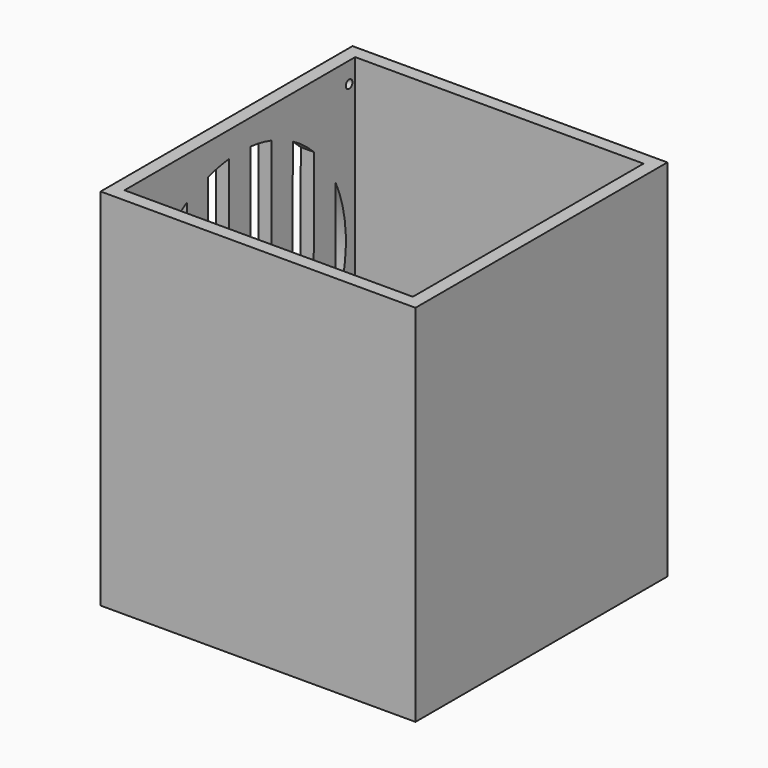
from build123d import *

# Parameters (mm, degrees)
F0_W     = 120.65
F0_H     = 120.65
F1_DEPTH = 139.7
F2_T     = -5.08
F4_DEPTH = 25.4
F5_R     = 1.5875
F6_DEPTH = 25.4


with BuildPart() as f1:
    # F0 (on Top) → F1 (new body)
    with BuildSketch(Plane.XY):
        with Locations((-21.288729769, 17.728820008)):
            Rectangle(F0_W, F0_H)
    extrude(amount=F1_DEPTH)

    # F2
    f2_openings = [f1.faces().sort_by_distance(p)[0] for p in [
        (-21.28873, 17.72882, 139.7),
    ]]
    offset(amount=F2_T, openings=f2_openings)

    # F3 (on face) → F4 (cut)
    with BuildSketch(Plane(origin=(-81.613729769, 0, 0), x_dir=(0, -1, 0), z_dir=(-1, 0, 0))):
        with BuildLine():
            Line((-22.8087121331, 79.4233293937), (-22.8087121331, 129.9203726467))
            ThreePointArc((-22.8087121331, 129.9203726467), (-27.9420685988, 129.1377325739), (-32.9687117108, 127.8351454898))
            Line((-32.9687117108, 127.8351454898), (-32.9687117108, 79.4203999617))
            Line((-32.9687117108, 79.4203999617), (-22.8087121331, 79.4233293937))
        make_face()
        with BuildLine():
            ThreePointArc((-32.9687117108, 30.9148545102), (-27.9420685988, 29.6122674261), (-22.8087121331, 28.8296273533))
            Line((-22.8087121331, 28.8296273533), (-22.8087121331, 79.4233293937))
            Line((-22.8087121331, 79.4233293937), (-32.9687117108, 79.4203999617))
            Line((-32.9687117108, 79.4203999617), (-32.9687117108, 30.9148545102))
        make_face()
        with BuildLine():
            ThreePointArc((-12.6196735848, 28.8325760096), (-7.486767718, 29.618187754), (-2.4608762974, 30.9236853135))
            Line((-2.4608762974, 30.9236853135), (-2.4748441512, 79.3676804493))
            Line((-2.4748441512, 79.3676804493), (-2.4888187622, 79.36767642))
            Line((-2.4888187622, 79.36767642), (-12.6342468971, 79.3764521102))
            Line((-12.6342468971, 79.3764521102), (-12.6196735848, 28.8325760096))
        make_face()
        with BuildLine():
            Line((-2.4748441512, 79.3676804493), (-2.4888187622, 127.8351110402))
            ThreePointArc((-2.4888187622, 127.8351110402), (-7.5154621752, 129.1377101531), (-12.6488202192, 129.9203618262))
            Line((-12.6488202192, 129.9203618262), (-12.6342468971, 79.3764521102))
            Line((-12.6342468971, 79.3764521102), (-2.4888187622, 79.36767642))
            Line((-2.4888187622, 79.36767642), (-2.4748441512, 79.3676804493))
        make_face()
        with BuildLine():
            Line((17.8416409794, 79.3735383001), (17.8311803932, 115.6534560237))
            ThreePointArc((17.8311803932, 115.6534560237), (12.9943502285, 119.8314804526), (7.6711808155, 123.3690900368))
            Line((7.6711808155, 123.3690900368), (7.6711808155, 79.370605852))
            Line((7.6711808155, 79.370605852), (17.8311803932, 79.373535284))
            Line((17.8311803932, 79.373535284), (17.8416409794, 79.3735383001))
        make_face()
        with BuildLine():
            ThreePointArc((7.6711808155, 35.3809099632), (13.0060137652, 38.9273796382), (17.8520948084, 43.1170560315))
            Line((17.8520948084, 43.1170560315), (17.8416409794, 79.3735383001))
            Line((17.8416409794, 79.3735383001), (17.8311803932, 79.373535284))
            Line((17.8311803932, 79.373535284), (7.6711808155, 79.370605852))
            Line((7.6711808155, 79.370605852), (7.6711808155, 35.3809099632))
        make_face()
        with BuildLine():
            Line((27.9975640978, 79.376464716), (33.0711799708, 79.376464716))
            ThreePointArc((33.0711799708, 79.376464716), (31.7847314928, 90.7349391624), (27.9911799708, 101.5182066768))
            Line((27.9911799708, 101.5182066768), (27.9975640978, 79.376464716))
        make_face()
        with BuildLine():
            ThreePointArc((28.0039414666, 57.2581618917), (31.7881684046, 68.0300514084), (33.071179992, 79.375))
            ThreePointArc((33.071179992, 79.375), (33.0711799867, 79.375732358), (33.0711799708, 79.376464716))
            Line((33.0711799708, 79.376464716), (27.9975640978, 79.376464716))
            Line((27.9975640978, 79.376464716), (28.0039414666, 57.2581618917))
        make_face()
        with BuildLine():
            Line((-42.9323247395, 79.4203999617), (-43.1287117108, 123.3691530375))
            ThreePointArc((-43.1287117108, 123.3691530375), (-48.4518229046, 119.8316075323), (-53.2886102754, 115.6536619949))
            Line((-53.2886102754, 115.6536619949), (-53.1265006866, 79.375724394))
            Line((-53.1265006866, 79.375724394), (-43.1287117108, 79.4203999617))
            Line((-43.1287117108, 79.4203999617), (-42.9323247395, 79.4203999617))
        make_face()
        with BuildLine():
            ThreePointArc((-52.962971018, 42.7799921081), (-48.0890388763, 38.6454393558), (-42.7345255311, 35.155607294))
            Line((-42.7345255311, 35.155607294), (-42.9323247395, 79.4203999617))
            Line((-42.9323247395, 79.4203999617), (-43.1287117108, 79.4203999617))
            Line((-43.1287117108, 79.4203999617), (-53.1265006866, 79.375724394))
            Line((-53.1265006866, 79.375724394), (-52.962971018, 42.7799921081))
        make_face()
        with BuildLine():
            Line((-63.4422243346, 79.3720724091), (-63.4486098531, 101.5186405436))
            ThreePointArc((-63.4486098531, 101.5186405436), (-67.2429726273, 90.732318803), (-68.528819818, 79.3706057914))
            Line((-68.528819818, 79.3706057914), (-63.4486098531, 79.372070568))
            Line((-63.4486098531, 79.372070568), (-63.4422243346, 79.3720724091))
        make_face()
        with BuildLine():
            ThreePointArc((-68.528819818, 79.3706057914), (-67.2387120843, 67.9991226008), (-63.4358329036, 57.2049983725))
            Line((-63.4358329036, 57.2049983725), (-63.4422243346, 79.3720724091))
            Line((-63.4422243346, 79.3720724091), (-63.4486098531, 79.372070568))
            Line((-63.4486098531, 79.372070568), (-68.528819818, 79.3706057914))
        make_face()
    extrude(amount=-F4_DEPTH, mode=Mode.SUBTRACT)

    # F5 (on face) → F6 (cut)
    with BuildSketch(Plane(origin=(-81.613729769, 0, 0), x_dir=(0, -1, 0), z_dir=(-1, 0, 0))):
        with Locations((34.6613678069, 27.1940474238)):
            Circle(F5_R)
        with Locations((-70.0808512879, 131.7625792464)):
            Circle(F5_R)
    extrude(amount=-F6_DEPTH, mode=Mode.SUBTRACT)


solid = f1.part
